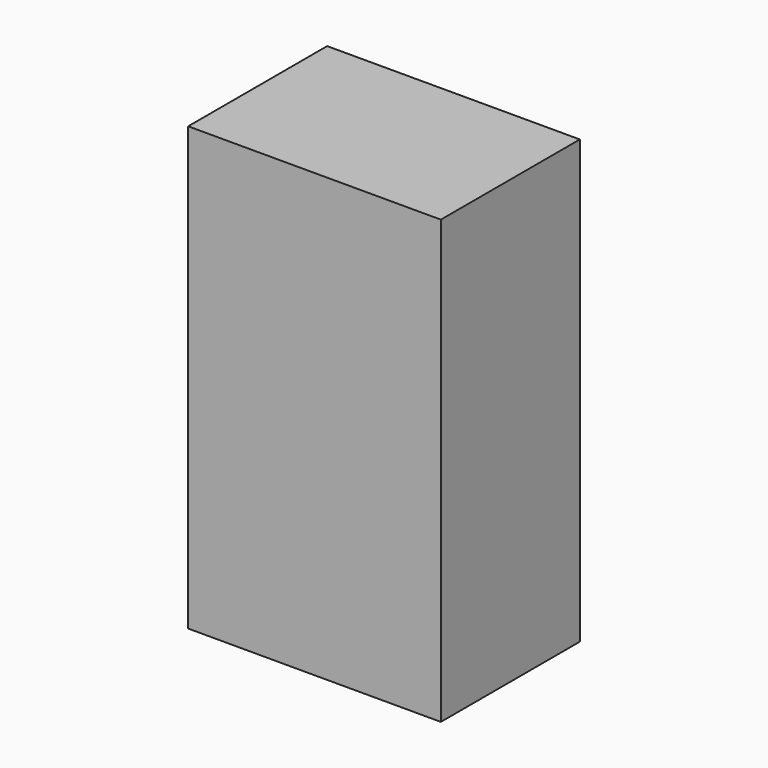
from build123d import *

# Parameters (mm, degrees)
F0_W     = 320
F0_H     = 560
F1_DEPTH = 220
F2_W     = 300
F2_H     = 200
F3_DEPTH = 20


with BuildPart() as f1:
    # F0 (on Front) → F1 (new body)
    with BuildSketch(Plane.XZ):
        with Locations((10.617441, 58.223592)):
            Rectangle(F0_W, F0_H)
    extrude(amount=F1_DEPTH)

    # F2 (on face) → F3 (join)
    with BuildSketch(Plane.XY.offset(338.223592)):
        with Locations((10.617441, -110)):
            Rectangle(F2_W, F2_H)
    extrude(amount=-F3_DEPTH)


solid = f1.part
